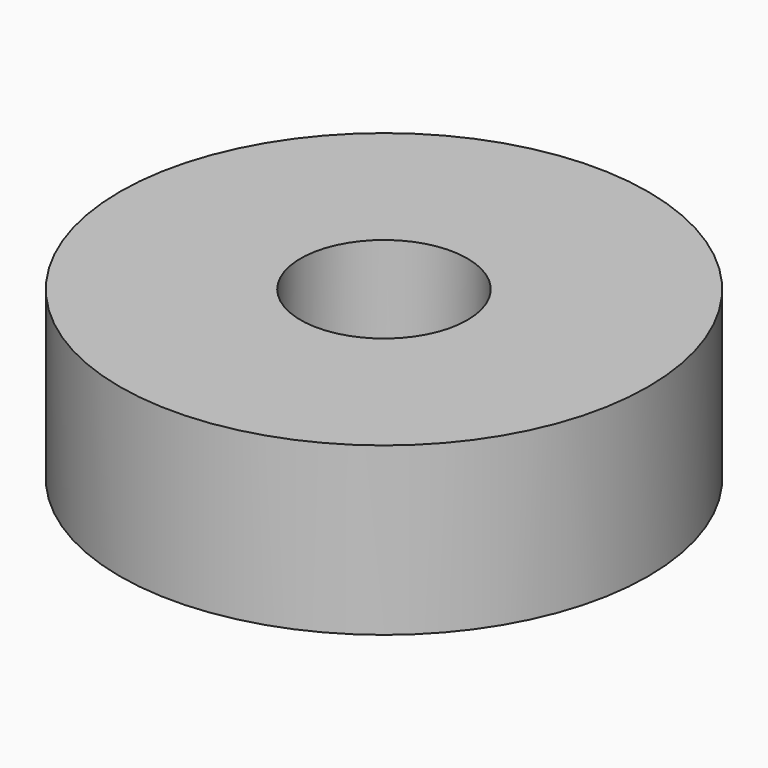
from build123d import *

# Parameters (mm, degrees)
SKETCH_R   = 9.5
SKETCH_R_2 = 3
PAD_DEPTH  = 6


with BuildPart() as part:
    # Sketch → Pad (new body)
    with BuildSketch(Plane.XY):
        Circle(SKETCH_R)
        Circle(SKETCH_R_2, mode=Mode.SUBTRACT)
    extrude(amount=PAD_DEPTH)


solid = part.part
